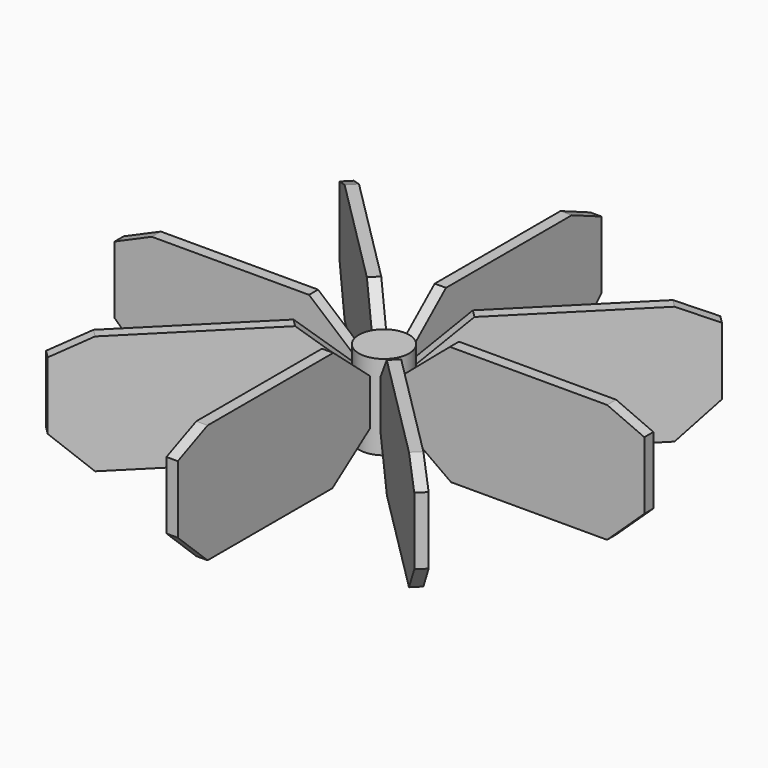
from build123d import *

# Parameters (mm, degrees)
F0_R     = 4.445583
F1_DEPTH = 7.5
F3_DEPTH = 1
F4_COUNT = 8


with BuildPart() as f1:
    # F0 (on Top) → F1 (new body, symmetric)
    with BuildSketch(Plane.XY):
        Circle(F0_R)
    extrude(amount=F1_DEPTH, both=True)


with BuildPart() as f3:
    # F2 (on Right) → F3 (new body, symmetric)
    with BuildSketch(Plane.YZ):
        Polygon((-3.982556, -3.265992), (-3.693154, 4.073349), (-12.455883, 11.529413), (-40.25, 11.529413), (-46.838239, 8.647059), (-46.838239, -3.265992), (-40.25, -9.470589), (-12.661766, -9.470589), align=None)
    extrude(amount=F3_DEPTH, both=True)


with BuildPart() as f4_1:
    # F4: instance of F3
    add(f3.part.rotate(Axis((0, 0, 0), (0, 0, 1)), 1 * 360 / F4_COUNT))


with BuildPart() as f4_2:
    # F4: instance of F3
    add(f3.part.rotate(Axis((0, 0, 0), (0, 0, 1)), 2 * 360 / F4_COUNT))


with BuildPart() as f4_3:
    # F4: instance of F3
    add(f3.part.rotate(Axis((0, 0, 0), (0, 0, 1)), 3 * 360 / F4_COUNT))


with BuildPart() as f4_4:
    # F4: instance of F3
    add(f3.part.rotate(Axis((0, 0, 0), (0, 0, 1)), 4 * 360 / F4_COUNT))


with BuildPart() as f4_5:
    # F4: instance of F3
    add(f3.part.rotate(Axis((0, 0, 0), (0, 0, 1)), 5 * 360 / F4_COUNT))


with BuildPart() as f4_6:
    # F4: instance of F3
    add(f3.part.rotate(Axis((0, 0, 0), (0, 0, 1)), 6 * 360 / F4_COUNT))


with BuildPart() as f4_7:
    # F4: instance of F3
    add(f3.part.rotate(Axis((0, 0, 0), (0, 0, 1)), 7 * 360 / F4_COUNT))


solid = Compound([f1.part, f3.part, f4_1.part, f4_2.part, f4_3.part, f4_4.part, f4_5.part, f4_6.part, f4_7.part])
